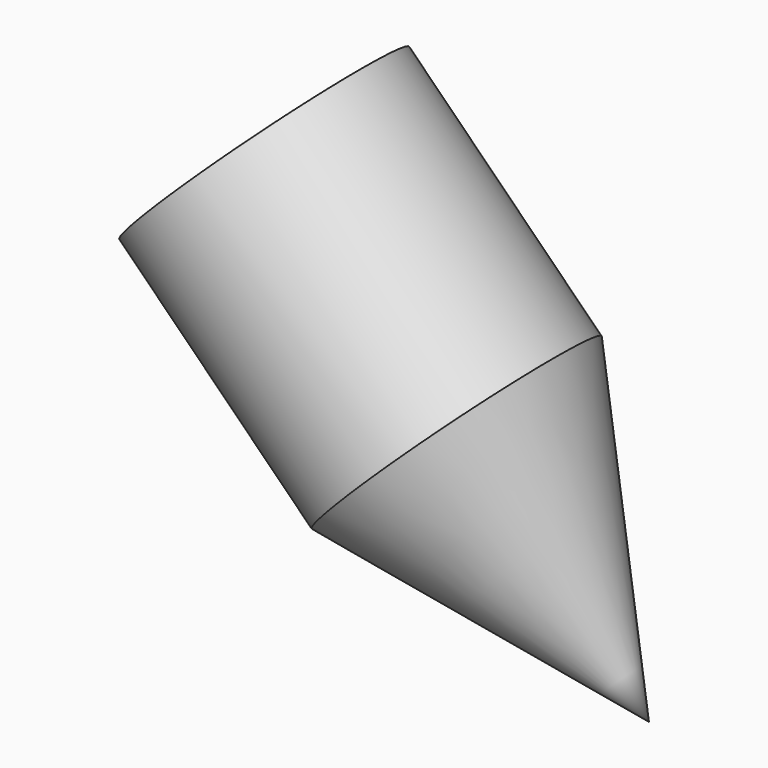
from build123d import *


with BuildPart() as part:
    # Sketch → Revolution (revolve)
    with BuildSketch(Plane.XZ):
        Polygon((-486.106781, 486.106781), (-132.553391, 839.660172), (574.553391, 132.553391), (928.106781, -928.106781), align=None)
    revolve(axis=Axis((0, 0, 0), (0.707107, 0, -0.707107)))


solid = part.part
